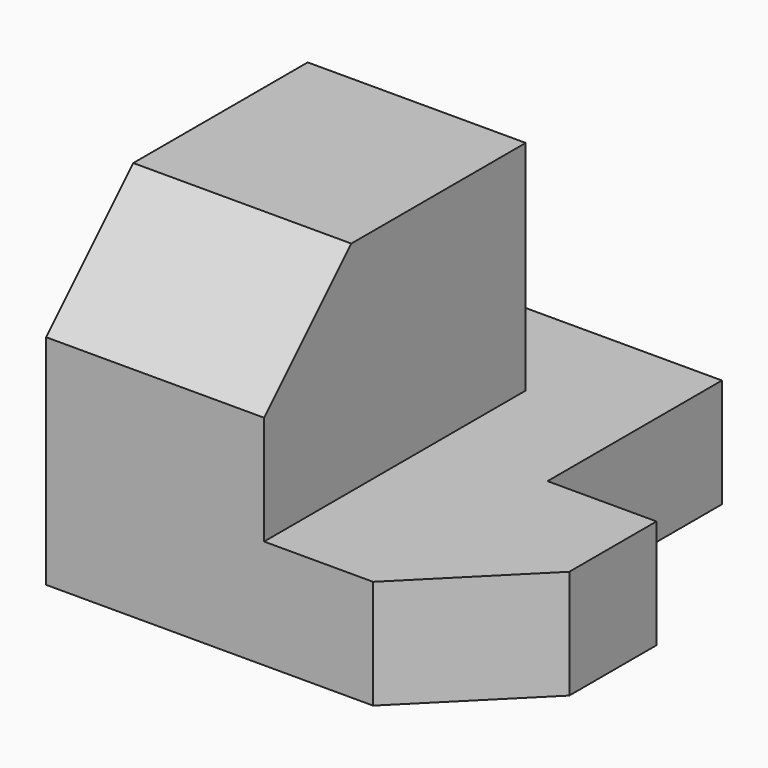
from build123d import *

# Parameters (mm, degrees)
F0_W      = 40
F0_H      = 40
F1_DEPTH  = 40
F2_W      = 10
F2_H      = 20
F3_DEPTH  = 40.001
F5_DEPTH  = 40.001
F7_DEPTH  = 20
F8_W      = 20
F8_H      = 30
F9_DEPTH  = 10
F11_DEPTH = 10
F13_DEPTH = 20.001


with BuildPart() as f1:
    # F0 (on Front) → F1 (new body)
    with BuildSketch(Plane.XZ):
        with Locations((20, 20)):
            Rectangle(F0_W, F0_H)
    extrude(amount=F1_DEPTH)

    # F2 (on face) → F3 (cut, through all)
    with BuildSketch(Plane.XY.offset(40)):
        with Locations((35, -10)):
            Rectangle(F2_W, F2_H)
    extrude(amount=-F3_DEPTH, mode=Mode.SUBTRACT)

    # F4 (on face) → F5 (cut, through all)
    with BuildSketch(Plane.XY.offset(40)):
        Polygon((40, -30), (30, -40), (40, -40), align=None)
    extrude(amount=-F5_DEPTH, mode=Mode.SUBTRACT)

    # F6 (on face) → F7 (cut)
    with BuildSketch(Plane.XY.offset(40)):
        Polygon((30, 0), (0, 0), (0, -10), (20, -10), (20, -40), (30, -40), (40, -30), (40, -20), (30, -20), align=None)
    extrude(amount=-F7_DEPTH, mode=Mode.SUBTRACT)

    # F8 (on face) → F9 (cut)
    with BuildSketch(Plane.XY.offset(40)):
        with Locations((10, -25)):
            Rectangle(F8_W, F8_H)
    extrude(amount=-F9_DEPTH, mode=Mode.SUBTRACT)

    # F10 (on face) → F11 (cut)
    with BuildSketch(Plane.XY.offset(20)):
        Polygon((30, 0), (0, 0), (0, -10), (20, -10), (20, -40), (30, -40), (40, -30), (40, -20), (30, -20), align=None)
    extrude(amount=-F11_DEPTH, mode=Mode.SUBTRACT)

    # F12 (on face) → F13 (cut, through all)
    with BuildSketch(Plane.YZ.offset(20)):
        Polygon((-30, 30), (-40, 30), (-40, 20), align=None)
    extrude(amount=-F13_DEPTH, mode=Mode.SUBTRACT)


solid = f1.part
